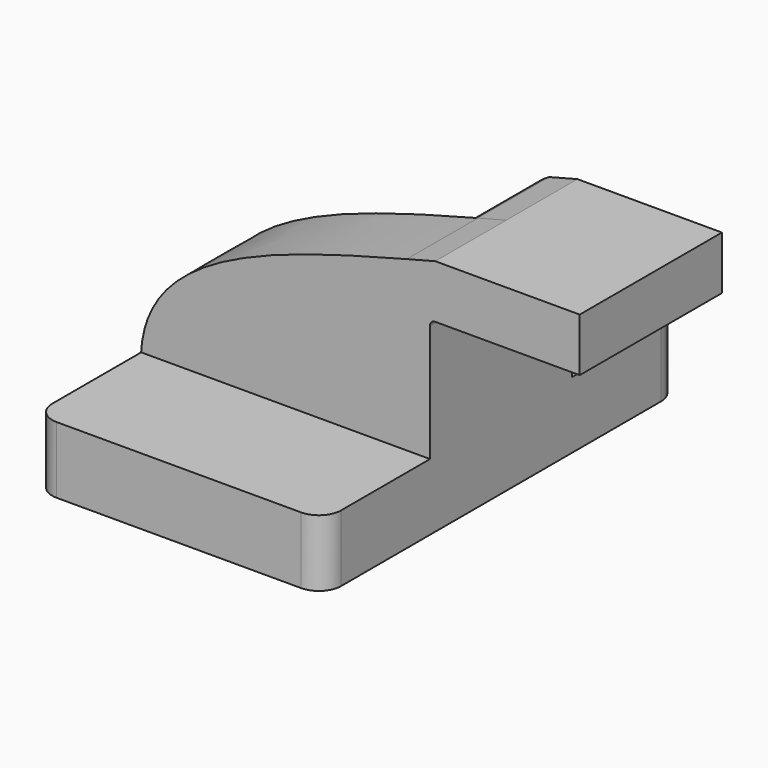
from build123d import *

# Parameters (mm, degrees)
F1_DEPTH = 63.5
F0_W     = 25.4
F0_H     = 15.24
F2_DEPTH = 25.4
F3_DEPTH = 25.4
F4_R     = 6.35


with BuildPart() as f1:
    # F0 (on Front) → F1 (new body, symmetric)
    with BuildSketch(Plane.XZ):
        Polygon((41.275, -9.525), (41.275, 9.525), (26.035, 9.525), (-41.275, 9.525), (-41.275, -9.525), align=None)
    extrude(amount=F1_DEPTH, both=True)

    # F0 (on Front) → F2 (join, symmetric)
    with BuildSketch(Plane.XZ):
        with BuildLine():
            Line((26.035, 9.525), (41.275, 9.525))
            Line((41.275, 9.525), (41.275, 43.0532871165))
            ThreePointArc((41.275, 43.0532871165), (41.710954306, 44.1057739147), (42.7634411042, 44.5417282207))
            Line((42.7634411042, 44.5417282207), (58.6539360017, 44.5417282207))
            Line((58.6539360017, 44.5417282207), (58.6539360017, 59.7817282207))
            Line((58.6539360017, 59.7817282207), (42.7634411042, 59.7817282207))
            add(Edge.make_bspline(
                [(42.7634411042, 59.7817282207), (40.0314907438, 59.0712143993), (37.3116085618, 58.3664493175), (34.6130178648, 57.6618922106)],
                knots=[0, 0, 0, 0, 6.2650251323, 6.2650251323, 6.2650251323, 6.2650251323], degree=3))
            ThreePointArc((34.6130178648, 57.6618922106), (28.3380361374, 51.5237318109), (26.035, 43.0532871165))
            Line((26.035, 43.0532871165), (26.035, 9.525))
        make_face()
        with Locations((71.3539360017, 52.1617282207)):
            Rectangle(F0_W, F0_H)
    extrude(amount=F2_DEPTH, both=True)

    # F0 (on Front) → F3 (join)
    with BuildSketch(Plane.XZ):
        with BuildLine():
            Line((-41.275, 9.525), (26.035, 9.525))
            Line((26.035, 9.525), (26.035, 43.0532871165))
            ThreePointArc((26.035, 43.0532871165), (28.3380361374, 51.5237318109), (34.6130178648, 57.6618922106))
            add(Edge.make_bspline(
                [(34.6130178648, 57.6618922106), (-4.8660731715, 47.3545587597), (-39.7882987615, 37.0917367173), (-41.275, 9.525)],
                knots=[6.2650251323, 6.2650251323, 6.2650251323, 6.2650251323, 97.9193459674, 97.9193459674, 97.9193459674, 97.9193459674], degree=3))
        make_face()
    extrude(amount=F3_DEPTH)

    # F4
    f4_edges = [f1.edges().sort_by_distance(p)[0] for p in [
        (41.275, -63.5, 0),
        (-41.275, -63.5, 0),
        (41.275, 63.5, 0),
        (-41.275, 63.5, 0),
    ]]
    fillet(f4_edges, radius=F4_R)


solid = f1.part
